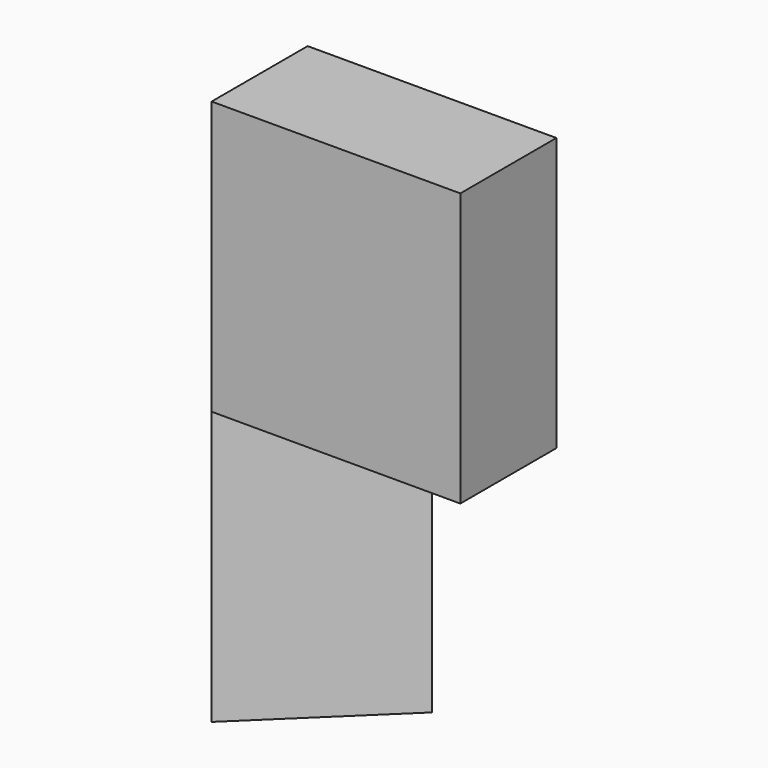
from build123d import *

# Parameters (mm, degrees)
F0_W     = 23.131878
F0_H     = 11.164456
F1_DEPTH = 25.4
F3_DEPTH = 50.8


with BuildPart() as f1:
    # F0 (on Top) → F1 (new body)
    with BuildSketch(Plane.XY):
        Rectangle(F0_W, F0_H)
    extrude(amount=F1_DEPTH)

    # F2 (on face) → F3 (join)
    with BuildSketch(Plane.XY.offset(25.4)):
        Polygon((-11.565939, -5.582228), (0, 5.582228), (-11.565939, 5.582228), align=None)
    extrude(amount=-F3_DEPTH)


solid = f1.part
